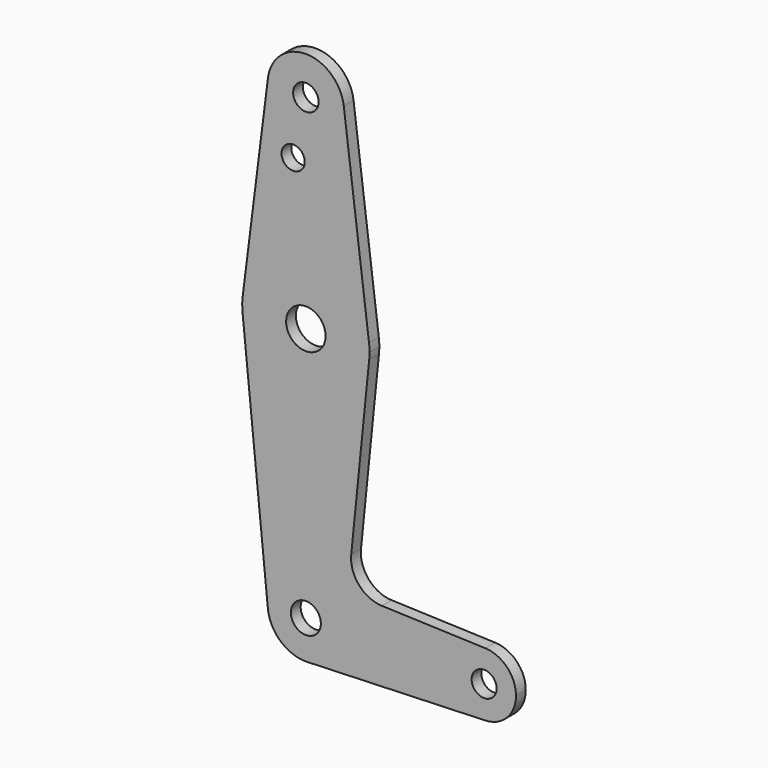
from build123d import *

# Parameters (mm, degrees)
F0_R     = 3.175
F0_R_2   = 2.8967213822
F0_R_3   = 4.9231792558
F0_R_4   = 3.7359067091
F0_R_5   = 3.1164885501
F1_DEPTH = 3.048


with BuildPart() as f1:
    # F0 (on Front) → F1 (new body)
    with BuildSketch(Plane.XZ):
        with BuildLine():
            ThreePointArc((-42.3213338093, 69.2824711493), (-33.4675240871, 58.5855412551), (-23.3460408451, 68.0918461493))
            ThreePointArc((-23.3460408451, 68.0918461493), (-23.3647359509, 68.6883293913), (-23.4207478809, 69.2824711493))
            ThreePointArc((-23.4207478809, 69.2824711493), (-32.8710408451, 77.6168461493), (-42.3213338093, 69.2824711493))
        make_face()
        with Locations((-32.8710408451, 68.0918461493)):
            Circle(F0_R, mode=Mode.SUBTRACT)
        with BuildLine():
            ThreePointArc((-23.4207478809, 69.2824711493), (-23.3647359509, 68.6883293913), (-23.3460408451, 68.0918461493))
            ThreePointArc((-23.3460408451, 68.0918461493), (-33.4675240871, 58.5855412551), (-42.3213338093, 69.2824711493))
            Line((-42.3213338093, 69.2824711493), (-48.6215291188, 19.2762211493))
            ThreePointArc((-48.6215291188, 19.2762211493), (-32.8710408451, 33.1668461493), (-17.1205525714, 19.2762211493))
            Line((-17.1205525714, 19.2762211493), (-23.4207478809, 69.2824711493))
        make_face()
        with Locations((-36.0460408451, 53.8170461493)):
            Circle(F0_R_2, mode=Mode.SUBTRACT)
        with BuildLine():
            ThreePointArc((-16.9960408451, 17.2918461493), (-17.0271993547, 18.2859848859), (-17.1205525714, 19.2762211493))
            ThreePointArc((-17.1205525714, 19.2762211493), (-32.8710408451, 33.1668461493), (-48.6215291188, 19.2762211493))
            ThreePointArc((-48.6215291188, 19.2762211493), (-48.7457796213, 17.2007759138), (-48.5977252432, 15.1268928374))
            ThreePointArc((-48.5977252432, 15.1268928374), (-32.5863651682, 1.4193988031), (-17.0768380415, 15.6922265698))
            ThreePointArc((-17.0768380415, 15.6922265698), (-17.0162530114, 16.4910167377), (-16.9960408451, 17.2918461493))
        make_face()
        with Locations((-32.8710408451, 17.2918461493)):
            Circle(F0_R_3, mode=Mode.SUBTRACT)
        with BuildLine():
            ThreePointArc((-17.0768380415, 15.6922265698), (-32.5863651682, 1.4193988031), (-48.5977252432, 15.1268928374))
            Line((-48.5977252432, 15.1268928374), (-42.3484581137, -47.1590412869))
            ThreePointArc((-42.3484581137, -47.1590412869), (-39.8191713507, -39.692855893), (-32.5308622319, -36.6892304078))
            Line((-32.5308622319, -36.6892304078), (-22.4185752351, -37.0506140669))
            Line((-22.4185752351, -37.0506140669), (-21.5634638108, -28.6074795691))
            Line((-21.5634638108, -28.6074795691), (-17.0768380415, 15.6922265698))
        make_face()
        with BuildLine():
            ThreePointArc((-32.5308622319, -36.6892304078), (-39.8191713507, -39.692855893), (-42.3484581137, -47.1590412869))
            ThreePointArc((-42.3484581137, -47.1590412869), (-39.1340347775, -53.3845409642), (-32.5308622705, -55.727077295))
            ThreePointArc((-32.5308622705, -55.727077295), (-26.0166325584, -52.8219811873), (-23.3460408451, -46.2081538507))
            ThreePointArc((-23.3460408451, -46.2081538507), (-26.0166325449, -39.594326528), (-32.5308622319, -36.6892304078))
        make_face()
        with Locations((-32.8710408451, -46.2081538507)):
            Circle(F0_R_4, mode=Mode.SUBTRACT)
        with BuildLine():
            Line((-22.4185752351, -37.0506140669), (-32.5308622319, -36.6892304078))
            ThreePointArc((-32.5308622319, -36.6892304078), (-26.0166325449, -39.594326528), (-23.3460408451, -46.2081538507))
            Line((-23.3460408451, -46.2081538507), (-22.4185752351, -37.0506140669))
        make_face()
        with BuildLine():
            ThreePointArc((-13.9376627644, -37.3536971559), (-19.6460678, -34.6332730975), (-21.5634638108, -28.6074795691))
            Line((-21.5634638108, -28.6074795691), (-22.4185752351, -37.0506140669))
            Line((-22.4185752351, -37.0506140669), (-13.9376627644, -37.3536971559))
        make_face()
        with BuildLine():
            ThreePointArc((-23.3460408451, -46.2081538507), (-26.0166325584, -52.8219811873), (-32.5308622705, -55.727077295))
            Line((-32.53086227, -55.7270773096), (11.8624413004, -54.1405900542))
            ThreePointArc((11.8624413004, -54.1405900542), (3.6414591549, -46.2081538504), (11.862441301, -38.2757176472))
            Line((11.8624413004, -38.2757176655), (-13.9376627644, -37.3536971559))
            Line((-13.9376627644, -37.3536971559), (-22.4185752351, -37.0506140669))
            Line((-22.4185752351, -37.0506140669), (-23.3460408451, -46.2081538507))
        make_face()
        with BuildLine():
            ThreePointArc((11.862441301, -38.2757176472), (3.6414591549, -46.2081538504), (11.8624413004, -54.1405900542))
            ThreePointArc((11.8624413004, -54.1405900542), (17.2909660605, -51.7196766312), (19.5164591549, -46.2081538507))
            ThreePointArc((19.5164591549, -46.2081538507), (17.2909660607, -40.6966310704), (11.862441301, -38.2757176472))
        make_face()
        with Locations((11.5789591549, -46.2081538507)):
            Circle(F0_R_5, mode=Mode.SUBTRACT)
    extrude(amount=F1_DEPTH)


solid = f1.part
